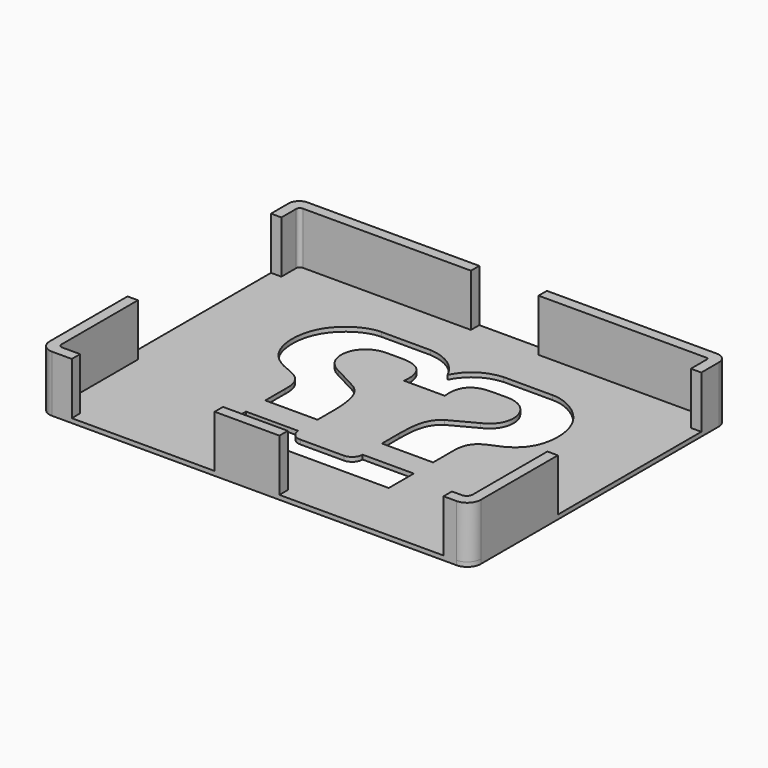
from build123d import *

# Parameters (mm, degrees)
EXTRUDE001_DEPTH = 3
EXTRUDE_DEPTH    = 13
PAD_DEPTH        = 1


with BuildPart() as logo:
    # Clone001 → Extrude001 (new body)
    with BuildSketch(Plane(origin=(-0.02902, 0.352548, 0), x_dir=(0, 1, 0), z_dir=(0, 0, 1))):
        with BuildLine():
            Line((11.003952, 0), (11.003952, 4.6902))
            add(Edge.make_bspline(
                [(17.495532, 11.11494), (17.439852, 9.87498), (18.110958, 3.851298), (11.003952, 4.6902)],
                knots=[0, 0, 0, 0, 1, 1, 1, 1], degree=3))
            Line((17.495532, 11.11494), (17.495532, 13.69728))
            add(Edge.make_bspline(
                [(17.495532, 13.69728), (17.55828, 20.39472), (9.268146, 22.052754), (6.725322, 16.344462)],
                knots=[0, 0, 0, 0, 1, 1, 1, 1], degree=3))
            Line((6.725322, 16.344462), (3.636072, 10.55046))
            add(Edge.make_bspline(
                [(3.636072, 10.55046), (1.910148, 7.910058), (-1.368966, 7.43109), (-5.653788, 7.349202)],
                knots=[0, 0, 0, 0, 1, 1, 1, 1], degree=3))
            Line((-5.653788, 7.349202), (-10.55505, 7.349202))
            Line((-10.55505, 7.349202), (-10.55505, 19.368439))
            Line((-10.55505, 19.368439), (-4.848108, 19.368439))
            add(Edge.make_bspline(
                [(23.288592, 19.68918), (23.306112, 23.010726), (18.553098, 30.563958), (6.6153, 31.116642), (1.16223, 25.36881), (0.241104, 19.141998), (-4.848108, 19.368439)],
                knots=[0, 0, 0, 0, 0.25, 0.5, 0.75, 1, 1, 1, 1], degree=3))
            Line((23.288592, 19.68918), (23.288592, 8.37522))
            add(Edge.make_bspline(
                [(23.288592, 8.37522), (22.78257, 2.635146), (17.706012, 0)],
                knots=[0, 0, 0, 1, 1, 1], degree=2))
            add(Edge.make_bspline(
                [(23.288592, -8.37522), (22.78257, -2.635146), (17.706012, 0)],
                knots=[0, 0, 0, 1, 1, 1], degree=2))
            Line((23.288592, -8.37522), (23.288592, -19.68918))
            add(Edge.make_bspline(
                [(23.288592, -19.68918), (23.306112, -23.010726), (18.553098, -30.563958), (6.6153, -31.116642), (1.16223, -25.36881), (0.241104, -19.141998), (-4.848108, -19.23738)],
                knots=[0, 0, 0, 0, 0.25, 0.5, 0.75, 1, 1, 1, 1], degree=3))
            Line((-4.848108, -19.23738), (-10.55505, -19.23738))
            Line((-10.55505, -19.23738), (-10.55505, -7.463955))
            Line((-10.55505, -7.463955), (-5.653788, -7.463955))
            add(Edge.make_bspline(
                [(3.636072, -10.55046), (1.910148, -7.910058), (-1.368966, -7.43109), (-5.653788, -7.463955)],
                knots=[0, 0, 0, 0, 1, 1, 1, 1], degree=3))
            Line((3.636072, -10.55046), (6.725322, -16.344462))
            add(Edge.make_bspline(
                [(17.495532, -13.69728), (17.55828, -20.39472), (9.268146, -22.052754), (6.725322, -16.344462)],
                knots=[0, 0, 0, 0, 1, 1, 1, 1], degree=3))
            Line((17.495532, -13.69728), (17.495532, -11.11494))
            add(Edge.make_bspline(
                [(17.495532, -11.11494), (17.439852, -9.87498), (18.110958, -3.851298), (11.003952, -4.6902)],
                knots=[0, 0, 0, 0, 1, 1, 1, 1], degree=3))
            Line((11.003952, -4.6902), (11.003952, 0))
        make_face()
        with BuildLine():
            Line((-17.306112, 19.368439), (-16.106112, 19.368439))
            Line((-16.106112, 19.368439), (-16.106112, 7.349202))
            ThreePointArc((-16.106112, 7.349202), (-17.803168, 6.646258), (-18.506112, 4.949202))
            Line((-18.506112, 4.949202), (-18.506112, -5.063955))
            ThreePointArc((-18.506112, -5.063955), (-17.803168, -6.761011), (-16.106112, -7.463955))
            Line((-16.106112, -7.463955), (-16.106112, -19.23738))
            Line((-16.106112, -19.23738), (-23.306112, -19.23738))
            Line((-23.306112, -19.23738), (-23.306112, 13.368439))
            ThreePointArc((-23.306112, 13.368439), (-21.548753, 17.61108), (-17.306112, 19.368439))
        make_face()
    extrude(amount=EXTRUDE001_DEPTH)


with BuildPart() as basewall:
    # Sketch002 → Extrude (new body)
    with BuildSketch(Plane.XY):
        with BuildLine():
            Line((-46.351255, 34.299068), (-7.683758, 34.299068))
            Line((-7.683758, 36.699068), (-7.683758, 34.299068))
            Line((-47.208331, 36.699068), (-7.683758, 36.699068))
            ThreePointArc((-47.208331, 36.699068), (-48.905387, 35.996124), (-49.608331, 34.299068))
            Line((-49.608331, 29.202455), (-49.608331, 34.299068))
            Line((-49.608331, 29.202455), (-47.208331, 29.202455))
            Line((-47.208331, 29.202455), (-47.208331, 33.441992))
            ThreePointArc((-46.351255, 34.299068), (-46.957299, 34.048036), (-47.208331, 33.441992))
        make_face()
        with BuildLine():
            Line((46.991669, 33.796452), (46.991669, 29.202455))
            Line((46.991669, 29.202455), (49.391669, 29.202455))
            Line((49.391669, 34.299068), (49.391669, 29.202455))
            ThreePointArc((49.391669, 34.299068), (48.688725, 35.996124), (46.991669, 36.699068))
            Line((7.867758, 36.699068), (46.991669, 36.699068))
            Line((7.867758, 36.699068), (7.867758, 34.299068))
            Line((7.867758, 34.299068), (46.489053, 34.299068))
            ThreePointArc((46.991669, 33.796452), (46.844456, 34.151855), (46.489053, 34.299068))
        make_face()
        with BuildLine():
            Line((45.587676, -34.914826), (43.315151, -34.914826))
            Line((43.315151, -34.914826), (43.315152, -37.314826))
            Line((46.254463, -37.314826), (43.315152, -37.314826))
            ThreePointArc((46.254463, -37.314826), (48.472803, -36.395959), (49.391669, -34.177619))
            Line((49.391669, -12.051777), (49.391669, -34.177619))
            Line((46.991669, -12.051777), (49.391669, -12.051777))
            Line((46.991669, -12.051777), (46.991669, -33.510833))
            ThreePointArc((45.587676, -34.914826), (46.580449, -34.503606), (46.991669, -33.510833))
        make_face()
        with BuildLine():
            Line((-47.208331, -34.091189), (-47.208331, -12.051777))
            Line((-49.608331, -12.051777), (-47.208331, -12.051777))
            Line((-49.608331, -34.495377), (-49.608331, -12.051777))
            ThreePointArc((-49.608331, -34.495377), (-48.782534, -36.489028), (-46.788882, -37.314826))
            Line((-42.228662, -37.314826), (-46.788882, -37.314826))
            Line((-42.228662, -34.914826), (-42.228662, -37.314826))
            Line((-42.228662, -34.914826), (-46.384694, -34.914826))
            ThreePointArc((-47.208331, -34.091189), (-46.967093, -34.673588), (-46.384694, -34.914826))
        make_face()
        Polygon((-9.348882, -34.914826), (-9.348882, -37.314826), (5.543215, -37.314826), (5.543216, -34.914826), align=None)
    extrude(amount=EXTRUDE_DEPTH)


with BuildPart() as brandedbase:
    # Sketch → Pad (new body)
    with BuildSketch(Plane.XY):
        with BuildLine():
            Line((-47.208331, 36.699068), (46.991669, 36.699068))
            ThreePointArc((49.391669, 34.299068), (48.688725, 35.996124), (46.991669, 36.699068))
            Line((49.391669, 34.299068), (49.391669, -34.185399))
            ThreePointArc((46.257494, -37.314826), (48.472707, -36.399221), (49.391669, -34.185399))
            Line((46.257494, -37.314826), (-46.753742, -37.314826))
            ThreePointArc((-49.608331, -34.495164), (-48.765008, -36.4962), (-46.753742, -37.314826))
            Line((-49.608331, -34.495164), (-49.608331, 34.299068))
            ThreePointArc((-47.208331, 36.699068), (-48.905387, 35.996124), (-49.608331, 34.299068))
        make_face()
    extrude(amount=PAD_DEPTH)

    # Fusion: union BaseWall
    add(basewall.part)

    # Cut: cut Logo
    add(logo.part, mode=Mode.SUBTRACT)


solid = brandedbase.part
